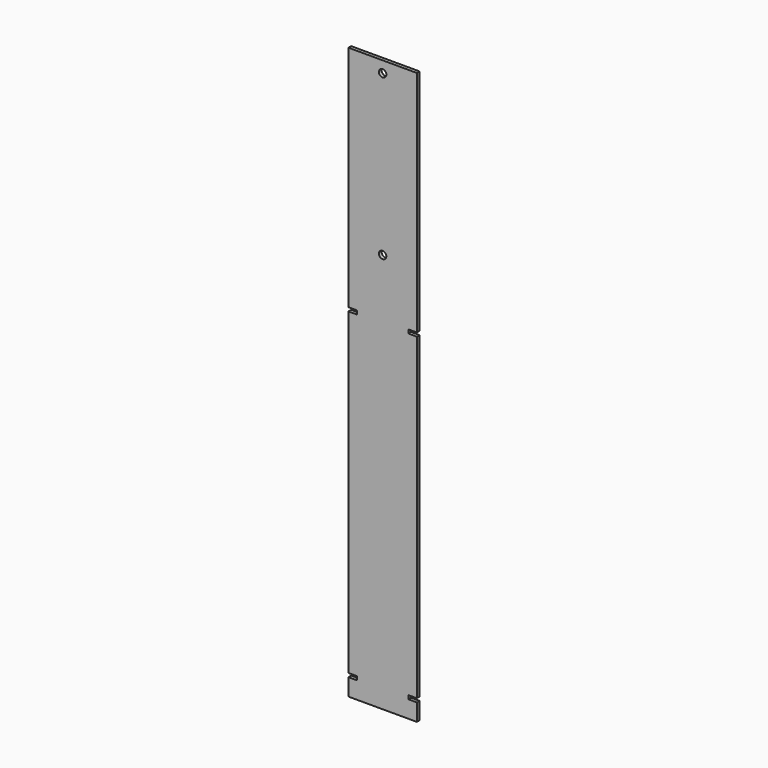
from build123d import *

# Parameters (mm, degrees)
F0_R     = 6.5
F1_DEPTH = 6


with BuildPart() as f1:
    # F0 (on Front) → F1 (new body)
    with BuildSketch(Plane.XZ):
        Polygon((33.771739, 925.182832), (-86.228261, 925.182832), (-86.228261, 525.182832), (-71.228261, 525.182832), (-71.228261, 518.682832), (-86.228261, 518.682832), (-86.228261, -38.617168), (-71.228261, -38.617168), (-71.228261, -45.117168), (-86.228261, -45.117168), (-86.228261, -75.117168), (33.771739, -75.117168), (33.771739, -45.117168), (18.771739, -45.117168), (18.771739, -38.617168), (33.771739, -38.617168), (33.771739, 518.682832), (18.771739, 518.682832), (18.771739, 525.182832), (33.771739, 525.182832), align=None)
        with Locations((-26.228261, 625.182832)):
            Circle(F0_R, mode=Mode.SUBTRACT)
        with Locations((-26.228261, 905.182832)):
            Circle(F0_R, mode=Mode.SUBTRACT)
    extrude(amount=F1_DEPTH)


solid = f1.part
